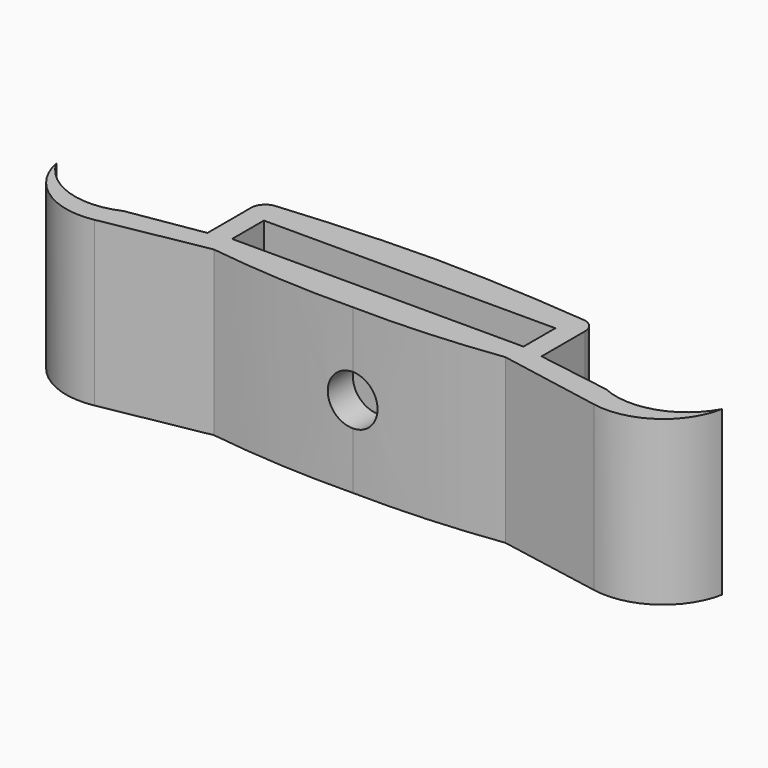
from build123d import *

# Parameters (mm, degrees)
F1_DEPTH = 11.5
F2_R     = 1.75
F3_DEPTH = 25
F4_R     = 1


with BuildPart() as f1:
    # F0 (on Top) → F1 (new body)
    with BuildSketch(Plane.XY):
        with BuildLine():
            ThreePointArc((0, 0.8), (5.13633, 0.906445), (10.25, 1.4))
            Line((10.25, 1.4), (17.584028, 0.051845))
            ThreePointArc((17.584028, 0.051845), (21.307427, 0.828514), (23.407092, 4))
            ThreePointArc((23.407092, 4), (20.608046, 1.678425), (16.976419, 1.867262))
            Line((16.976419, 1.867262), (11.75, 2.712208))
            Line((11.75, 2.712208), (11.75, 7.455321))
            ThreePointArc((11.75, 7.455321), (5.882541, 7.915111), (0, 8.1))
            ThreePointArc((0, 8.1), (-5.882541, 7.915111), (-11.75, 7.455321))
            Line((-11.75, 7.455321), (-11.75, 2.712208))
            Line((-11.75, 2.712208), (-16.976419, 1.867262))
            ThreePointArc((-16.976419, 1.867262), (-20.608046, 1.678425), (-23.407092, 4))
            ThreePointArc((-23.407092, 4), (-21.307427, 0.828514), (-17.584028, 0.051845))
            Line((-17.584028, 0.051845), (-10.25, 1.4))
            ThreePointArc((-10.25, 1.4), (-5.13633, 0.906445), (0, 0.8))
        make_face()
        Polygon((10.25, 5.8), (10.25, 3), (0, 3), (-10.25, 3), (-10.25, 5.8), (0, 5.8), align=None, mode=Mode.SUBTRACT)
    extrude(amount=F1_DEPTH)

    # F2 (on Front) → F3 (cut)
    with BuildSketch(Plane.XZ):
        with Locations((0, 5.75)):
            Circle(F2_R)
    extrude(amount=-F3_DEPTH, mode=Mode.SUBTRACT)

    # F4
    f4_edges = [f1.edges().sort_by_distance(p)[0] for p in [
        (-11.75, 7.455321, 5.75),
        (11.75, 7.455321, 5.75),
    ]]
    fillet(f4_edges, radius=F4_R)


solid = f1.part
